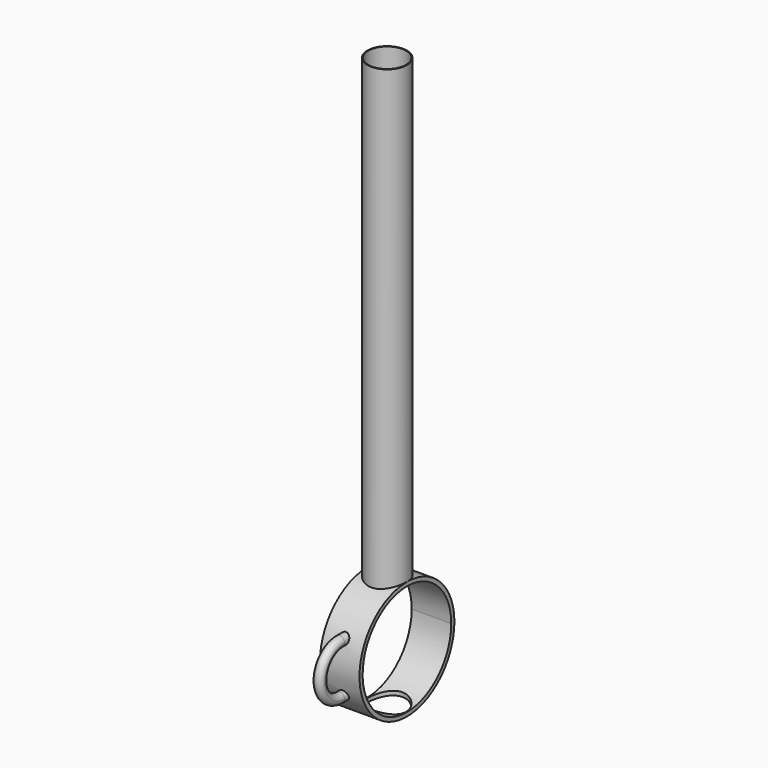
from build123d import *

# Parameters (mm, degrees)
F0_R      = 3.175
F1_DEPTH  = 38.1
F3_R      = 9.525
F4_DEPTH  = 3.175
F5_R      = 3.048
F6_DEPTH  = 92.0760001
F8_DEPTH  = 6.3510001273
F12_R     = 0.79375
F15_ANGLE = 180


with BuildPart() as f1:
    # F0 (on Top) → F1 (new body, symmetric)
    with BuildSketch(Plane.XY):
        Circle(F0_R)
    extrude(amount=F1_DEPTH, both=True)

    # F3 (on Right) → F4 (join, symmetric)
    with BuildSketch(Plane.YZ):
        with Locations((0, -44.45)):
            Circle(F3_R)
    extrude(amount=F4_DEPTH, both=True)

    # F5 (on face) → F6 (cut, through all)
    with BuildSketch(Plane.XY.offset(38.1)):
        Circle(F5_R)
    extrude(amount=-F6_DEPTH, mode=Mode.SUBTRACT)

    # F7 (on face) → F8 (cut, through all)
    with BuildSketch(Plane.YZ.offset(3.175)):
        with BuildLine():
            ThreePointArc((0, -35.56), (-6.2861792847, -50.7361792847), (8.89, -44.45))
            ThreePointArc((8.89, -44.45), (6.2861792847, -38.1638207153), (0, -35.56))
        make_face()
    extrude(amount=-F8_DEPTH, mode=Mode.SUBTRACT)

    # F12 (on offset) → F13 (join, up to the next surface of F1)
    with BuildSketch(Plane.XZ.offset(9.525)):
        with Locations((0, -40.48125)):
            Circle(F12_R)
        with Locations((0, -48.41875)):
            Circle(F12_R)
    extrude(until=Until.NEXT, dir=(0, 1, 0))

    # F14 (on face) → F15 (revolve)
    with BuildSketch(Plane.XZ.offset(9.525)):
        with BuildLine():
            ThreePointArc((0, -41.275), (0.5612660076, -41.0425160076), (0.79375, -40.48125))
            ThreePointArc((0.79375, -40.48125), (-0.5612660076, -39.9199839924), (0, -41.275))
        make_face()
    revolve(axis=Axis((2.719247248, -9.525, -44.45), (1, 0, 0)), revolution_arc=F15_ANGLE)


solid = f1.part
